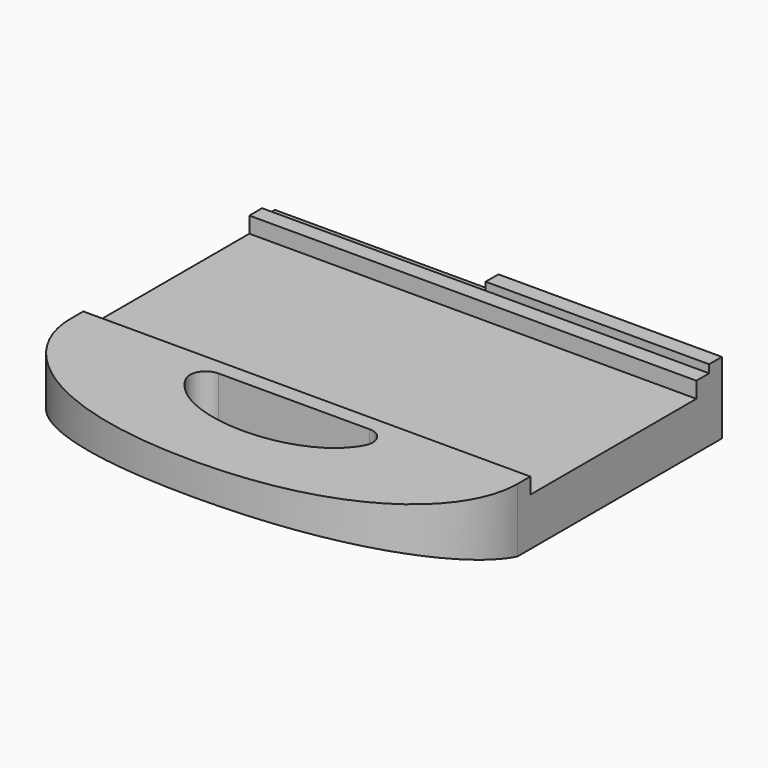
from build123d import *

# Parameters (mm, degrees)
F1_DEPTH  = 240
F5_DEPTH  = 55
F6_DEPTH  = 300
F7_DEPTH  = 300
F9_DEPTH  = 60
F11_DEPTH = 300
F12_W     = 10
F12_H     = 10
F13_DEPTH = 140
F14_W     = 10
F14_H     = 5
F15_DEPTH = 140
F16_W     = 10
F16_H     = 5
F17_DEPTH = 140
F18_W     = 60
F18_H     = 30
F19_DEPTH = 2
F20_W     = 10
F20_H     = 10
F20_W_2   = 20
F21_DEPTH = 2


with BuildPart() as f1:
    # F0 (on Front) → F1 (new body)
    with BuildSketch(Plane.XZ):
        Polygon((140, 34.5558735134), (0, 34.5558735134), (-140, 34.5558735134), (-140, -15.4441264866), (0, -15.4441264866), (140, -15.4441264866), align=None)
    extrude(amount=F1_DEPTH)

    # F2 (on face) → F5 (cut)
    with BuildSketch(Plane.XY.offset(34.5558735134)):
        with BuildLine():
            add(Edge.make_bspline(
                [(0, -240), (95.3545197845, -240), (140, -198.7661118304), (140, -160)],
                knots=[0, 0, 0, 0, 161.245154966, 161.245154966, 161.245154966, 161.245154966], degree=3))
            add(Edge.make_bspline(
                [(0, -240), (-95.3545197845, -240), (-140, -198.7661118304), (-140, -160)],
                knots=[0, 0, 0, 0, 161.245154966, 161.245154966, 161.245154966, 161.245154966], degree=3))
            Line((-140, -160), (-197.980850935, -160))
            Line((-197.980850935, -160), (-197.980850935, -279.9530625343))
            Line((-197.980850935, -279.9530625343), (0, -279.9530625343))
            Line((0, -279.9530625343), (197.980850935, -279.9530625343))
            Line((197.980850935, -279.9530625343), (197.980850935, -160))
            Line((197.980850935, -160), (140, -160))
        make_face()
    extrude(amount=-F5_DEPTH, mode=Mode.SUBTRACT)

    # F3 (on face) → F6 (cut)
    with BuildSketch(Plane.YZ.offset(140)):
        Polygon((-160, -5.4441264866), (-240, 14.5558735134), (-258.7273418903, 14.5558735134), (-258.7273418903, -38.2786095142), (-129.8724895716, -38.2786095142), (-120, -15.4441264866), align=None)
    extrude(amount=-F6_DEPTH, mode=Mode.SUBTRACT)

    # F4 (on face) → F7 (cut)
    with BuildSketch(Plane.XZ.offset(240)):
        with BuildLine():
            Line((-100, -5.4441264866), (-140, -5.4441264866))
            Line((-140, -5.4441264866), (-165.9448444843, -5.4441264866))
            Line((-165.9448444843, -5.4441264866), (-165.9448444843, -57.6582395507))
            Line((-165.9448444843, -57.6582395507), (0, -57.6582395507))
            Line((0, -57.6582395507), (165.9448444843, -57.6582395507))
            Line((165.9448444843, -57.6582395507), (165.9448444843, -5.4441264866))
            Line((165.9448444843, -5.4441264866), (140, -5.4441264866))
            Line((140, -5.4441264866), (100, -5.4441264866))
            ThreePointArc((100, -5.4441264866), (85.8113883008, -12.8782913891), (70, -15.4441264866))
            ThreePointArc((70, -15.4441264866), (54.1886116992, -12.8782913891), (40, -5.4441264866))
            Line((40, -5.4441264866), (0, -5.4441264866))
            Line((0, -5.4441264866), (-40, -5.4441264866))
            ThreePointArc((-40, -5.4441264866), (-54.1886116992, -12.8782913891), (-70, -15.4441264866))
            ThreePointArc((-70, -15.4441264866), (-85.8113883008, -12.8782913891), (-100, -5.4441264866))
        make_face()
    extrude(amount=-F7_DEPTH, mode=Mode.SUBTRACT)

    # F8 (on face) → F9 (cut)
    with BuildSketch(Plane.XY.offset(34.5558735134)):
        with BuildLine():
            Line((0, -160), (-47.3172063291, -160))
            ThreePointArc((-47.3172063291, -160), (-55.8915722063, -164.8541035957), (-56.1417660364, -174.7039500392))
            add(Edge.make_bspline(
                [(-56.1417660364, -174.7039500392), (-47.0895211735, -191.6858640929), (-23.5447605868, -200.0218033791), (0, -200.0218033791)],
                knots=[14.6694859707, 14.6694859707, 14.6694859707, 14.6694859707, 72.1231221295, 72.1231221295, 72.1231221295, 72.1231221295], degree=3))
            add(Edge.make_bspline(
                [(56.1417660364, -174.7039500392), (47.0895211735, -191.6858640929), (23.5447605868, -200.0218033791), (0, -200.0218033791)],
                knots=[14.6694859707, 14.6694859707, 14.6694859707, 14.6694859707, 72.1231221295, 72.1231221295, 72.1231221295, 72.1231221295], degree=3))
            ThreePointArc((56.1417660364, -174.7039500392), (55.8915722063, -164.8541035957), (47.3172063291, -160))
            Line((47.3172063291, -160), (0, -160))
        make_face()
    extrude(amount=-F9_DEPTH, mode=Mode.SUBTRACT)

    # F10 (on face) → F11 (cut)
    with BuildSketch(Plane.YZ.offset(140)):
        Polygon((-150, 61.0395711066), (-150, 34.5558735134), (-150, 24.5558735134), (-20, 24.5558735134), (-20, 34.5558735134), (-20, 61.0395711066), align=None)
    extrude(amount=-F11_DEPTH, mode=Mode.SUBTRACT)

    # F12 (on face) → F13 (cut)
    with BuildSketch(Plane(origin=(-140, 0, 0), x_dir=(0, -1, 0), z_dir=(-1, 0, 0))):
        with Locations((5, 29.5558735134)):
            Rectangle(F12_W, F12_H)
    extrude(amount=-F13_DEPTH, mode=Mode.SUBTRACT)

    # F14 (on face) → F15 (join)
    with BuildSketch(Plane.YZ.offset(140)):
        with Locations((-5, 37.0558735134)):
            Rectangle(F14_W, F14_H)
    extrude(amount=-F15_DEPTH)

    # F16 (on face) → F17 (join)
    with BuildSketch(Plane(origin=(-140, 0, 0), x_dir=(0, -1, 0), z_dir=(-1, 0, 0))):
        with Locations((5, 27.0558735134)):
            Rectangle(F16_W, F16_H)
    extrude(amount=-F17_DEPTH)

    # F18 (on face) → F19 (cut)
    with BuildSketch(Plane(origin=(0, 0, -5.4441264866), x_dir=(1, 0, 0), z_dir=(0, 0, -1))):
        with Locations((0, 130)):
            Rectangle(F18_W, F18_H)
    extrude(amount=-F19_DEPTH, mode=Mode.SUBTRACT)

    # F20 (on face) → F21 (join)
    with BuildSketch(Plane(origin=(0, -10.6927356439, -42.7709425756), x_dir=(1, 0, 0), z_dir=(0, -0.242535625, -0.9701425001))):
        with Locations((-75.5, 133.6312378254)):
            Rectangle(F20_W, F20_H)
        with Locations((-64.5, 133.6312378254)):
            Rectangle(F20_W, F20_H)
        with Locations((67.5, 133.6312378254)):
            Rectangle(F20_W_2, F20_H)
    extrude(amount=F21_DEPTH)


solid = f1.part
